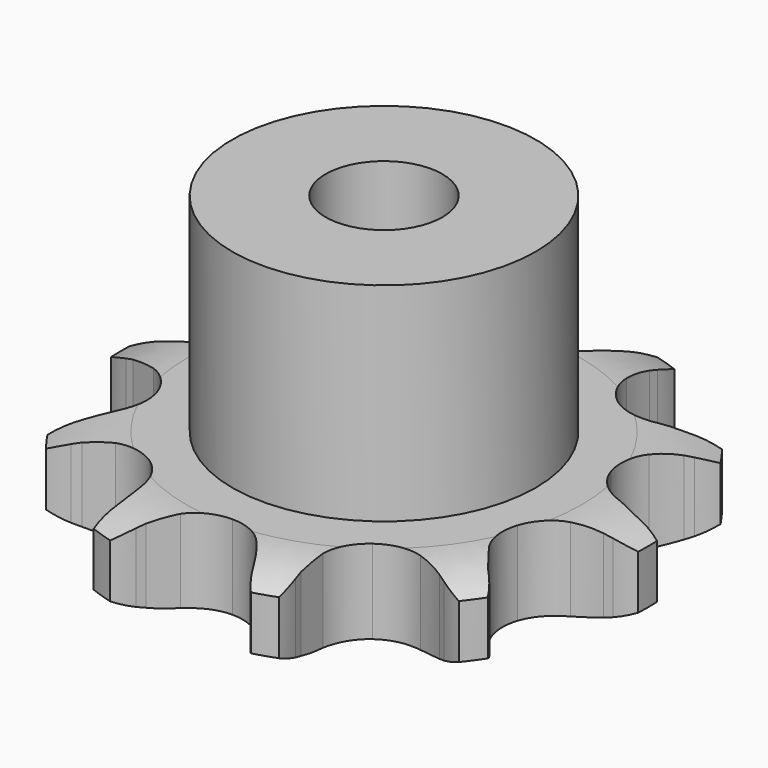
from build123d import *

# Parameters (mm, degrees)
PAD_DEPTH         = 7.2
SKETCH001_R       = 13
PAD001_DEPTH      = 25
SKETCH002_R       = 5
POCKET_DEPTH      = 0.001
POCKET_DEPTH_BACK = -25.001


with BuildPart() as part:
    # Sprocket → Pad (new body)
    with BuildSketch(Plane.XY):
        with BuildLine():
            ThreePointArc((-7.469505, 22.988772), (-6.053079, 21.819793), (-4.976484, 20.331936))
            Line((-4.976484, 20.331936), (-4.627193, 19.691291))
            ThreePointArc((-4.627193, 19.691291), (-3.995067, 18.667791), (-3.2561, 17.718547))
            ThreePointArc((-3.2561, 17.718547), (-1.789142, 16.623117), (0, 16.234657))
            ThreePointArc((0, 16.234657), (1.789142, 16.623117), (3.2561, 17.718547))
            ThreePointArc((3.2561, 17.718547), (3.995067, 18.667791), (4.627193, 19.691291))
            Line((4.627193, 19.691291), (4.976484, 20.331936))
            ThreePointArc((4.976484, 20.331936), (6.053079, 21.819793), (7.469505, 22.988772))
            ThreePointArc((7.469505, 22.988772), (7.928309, 21.210494), (7.924752, 19.373986))
            Line((7.924752, 19.373986), (7.830773, 18.650385))
            ThreePointArc((7.830773, 18.650385), (7.740576, 17.450802), (7.78046, 16.248493))
            ThreePointArc((7.78046, 16.248493), (8.323377, 14.500016), (9.542492, 13.134113))
            ThreePointArc((9.542492, 13.134113), (11.21827, 12.396753), (13.048941, 12.420718))
            Line((13.048941, 12.420718), (15.317728, 13.210793))
            ThreePointArc((15.317728, 13.210793), (15.644733, 13.372692), (15.976873, 13.523778))
            ThreePointArc((15.976873, 13.523778), (17.722396, 14.094673), (19.555417, 14.207842))
            ThreePointArc((19.555417, 14.207842), (18.881352, 12.499507), (17.799002, 11.015831))
            Line((17.799002, 11.015831), (17.297649, 10.485666))
            ThreePointArc((17.297649, 10.485666), (16.519581, 9.568199), (15.845149, 8.572067))
            ThreePointArc((15.845149, 8.572067), (15.256649, 6.838401), (15.440076, 5.016785))
            ThreePointArc((15.440076, 5.016785), (16.3624, 3.43525), (17.85753, 2.378597))
            Line((17.85753, 2.378597), (20.157412, 1.684221))
            ThreePointArc((20.157412, 1.684221), (20.517126, 1.622992), (20.874639, 1.549996))
            ThreePointArc((20.874639, 1.549996), (22.622361, 0.985867), (24.171825, 0))
            ThreePointArc((24.171825, 0), (22.622361, -0.985867), (20.874639, -1.549996))
            Line((20.874639, -1.549996), (20.157412, -1.684221))
            ThreePointArc((20.157412, -1.684221), (18.988668, -1.969131), (17.85753, -2.378597))
            ThreePointArc((17.85753, -2.378597), (16.3624, -3.43525), (15.440076, -5.016785))
            ThreePointArc((15.440076, -5.016785), (15.256649, -6.838401), (15.845149, -8.572067))
            Line((15.845149, -8.572067), (17.297649, -10.485666))
            ThreePointArc((17.297649, -10.485666), (17.552675, -10.746636), (17.799002, -11.015831))
            ThreePointArc((17.799002, -11.015831), (18.881352, -12.499507), (19.555417, -14.207842))
            ThreePointArc((19.555417, -14.207842), (17.722396, -14.094673), (15.976873, -13.523778))
            Line((15.976873, -13.523778), (15.317728, -13.210793))
            ThreePointArc((15.317728, -13.210793), (14.204729, -12.754319), (13.048941, -12.420718))
            ThreePointArc((13.048941, -12.420718), (11.21827, -12.396753), (9.542492, -13.134113))
            ThreePointArc((9.542492, -13.134113), (8.323377, -14.500016), (7.78046, -16.248493))
            Line((7.78046, -16.248493), (7.830773, -18.650385))
            ThreePointArc((7.830773, -18.650385), (7.883698, -19.011415), (7.924752, -19.373986))
            ThreePointArc((7.924752, -19.373986), (7.928309, -21.210494), (7.469505, -22.988772))
            ThreePointArc((7.469505, -22.988772), (6.053079, -21.819793), (4.976484, -20.331936))
            Line((4.976484, -20.331936), (4.627193, -19.691291))
            ThreePointArc((4.627193, -19.691291), (3.995067, -18.667791), (3.2561, -17.718547))
            ThreePointArc((3.2561, -17.718547), (1.789142, -16.623117), (0, -16.234657))
            ThreePointArc((0, -16.234657), (-1.789142, -16.623117), (-3.2561, -17.718547))
            Line((-3.2561, -17.718547), (-4.627193, -19.691291))
            ThreePointArc((-4.627193, -19.691291), (-4.796584, -20.014479), (-4.976484, -20.331936))
            ThreePointArc((-4.976484, -20.331936), (-6.053079, -21.819793), (-7.469505, -22.988772))
            ThreePointArc((-7.469505, -22.988772), (-7.928309, -21.210494), (-7.924752, -19.373986))
            Line((-7.924752, -19.373986), (-7.830773, -18.650385))
            ThreePointArc((-7.830773, -18.650385), (-7.740576, -17.450802), (-7.78046, -16.248493))
            ThreePointArc((-7.78046, -16.248493), (-8.323377, -14.500016), (-9.542492, -13.134113))
            ThreePointArc((-9.542492, -13.134113), (-11.21827, -12.396753), (-13.048941, -12.420718))
            Line((-13.048941, -12.420718), (-15.317728, -13.210793))
            ThreePointArc((-15.317728, -13.210793), (-15.644733, -13.372692), (-15.976873, -13.523778))
            ThreePointArc((-15.976873, -13.523778), (-17.722396, -14.094673), (-19.555417, -14.207842))
            ThreePointArc((-19.555417, -14.207842), (-18.881352, -12.499507), (-17.799002, -11.015831))
            Line((-17.799002, -11.015831), (-17.297649, -10.485666))
            ThreePointArc((-17.297649, -10.485666), (-16.519581, -9.568199), (-15.845149, -8.572067))
            ThreePointArc((-15.845149, -8.572067), (-15.256649, -6.838401), (-15.440076, -5.016785))
            ThreePointArc((-15.440076, -5.016785), (-16.3624, -3.43525), (-17.85753, -2.378597))
            Line((-17.85753, -2.378597), (-20.157412, -1.684221))
            ThreePointArc((-20.157412, -1.684221), (-20.517126, -1.622992), (-20.874639, -1.549996))
            ThreePointArc((-20.874639, -1.549996), (-22.622361, -0.985867), (-24.171825, 0))
            ThreePointArc((-24.171825, 0), (-22.622361, 0.985867), (-20.874639, 1.549996))
            Line((-20.874639, 1.549996), (-20.157412, 1.684221))
            ThreePointArc((-20.157412, 1.684221), (-18.988668, 1.969131), (-17.85753, 2.378597))
            ThreePointArc((-17.85753, 2.378597), (-16.3624, 3.43525), (-15.440076, 5.016785))
            ThreePointArc((-15.440076, 5.016785), (-15.256649, 6.838401), (-15.845149, 8.572067))
            Line((-15.845149, 8.572067), (-17.297649, 10.485666))
            ThreePointArc((-17.297649, 10.485666), (-17.552675, 10.746636), (-17.799002, 11.015831))
            ThreePointArc((-17.799002, 11.015831), (-18.881352, 12.499507), (-19.555417, 14.207842))
            ThreePointArc((-19.555417, 14.207842), (-17.722396, 14.094673), (-15.976873, 13.523778))
            Line((-15.976873, 13.523778), (-15.317728, 13.210793))
            ThreePointArc((-15.317728, 13.210793), (-14.204729, 12.754319), (-13.048941, 12.420718))
            ThreePointArc((-13.048941, 12.420718), (-11.21827, 12.396753), (-9.542492, 13.134113))
            ThreePointArc((-9.542492, 13.134113), (-8.323377, 14.500016), (-7.78046, 16.248493))
            Line((-7.78046, 16.248493), (-7.830773, 18.650385))
            ThreePointArc((-7.830773, 18.650385), (-7.883698, 19.011415), (-7.924752, 19.373986))
            ThreePointArc((-7.924752, 19.373986), (-7.928309, 21.210494), (-7.469505, 22.988772))
        make_face()
    extrude(amount=PAD_DEPTH)

    # Sketch → Groove (revolve, cut)
    with BuildSketch(Plane.XZ):
        with BuildLine():
            Line((16.933431, 0), (22.6, 0))
            Line((28.266569, 0), (22.6, 0))
            Line((28.266569, 7.2), (28.266569, 0))
            Line((22.6, 7.2), (28.266569, 7.2))
            Line((16.933431, 7.2), (22.6, 7.2))
            ThreePointArc((22.6, 5.9), (19.84032, 6.870833), (16.933431, 7.2))
            Line((22.6, 1.3), (22.6, 5.9))
            ThreePointArc((16.933431, 0), (19.84032, 0.329167), (22.6, 1.3))
        make_face()
    revolve(axis=Axis((0, 0, 0), (0, 0, 1)), mode=Mode.SUBTRACT)

    # Sketch001 → Pad001 (join)
    with BuildSketch(Plane.XY):
        Circle(SKETCH001_R)
    extrude(amount=PAD001_DEPTH)

    # Sketch002 → Pocket (cut, two sides)
    with BuildSketch(Plane.XY) as pocket_sk:
        Circle(SKETCH002_R)
    extrude(amount=-POCKET_DEPTH, mode=Mode.SUBTRACT)
    extrude(pocket_sk.sketch, amount=-POCKET_DEPTH_BACK, mode=Mode.SUBTRACT)


solid = part.part
